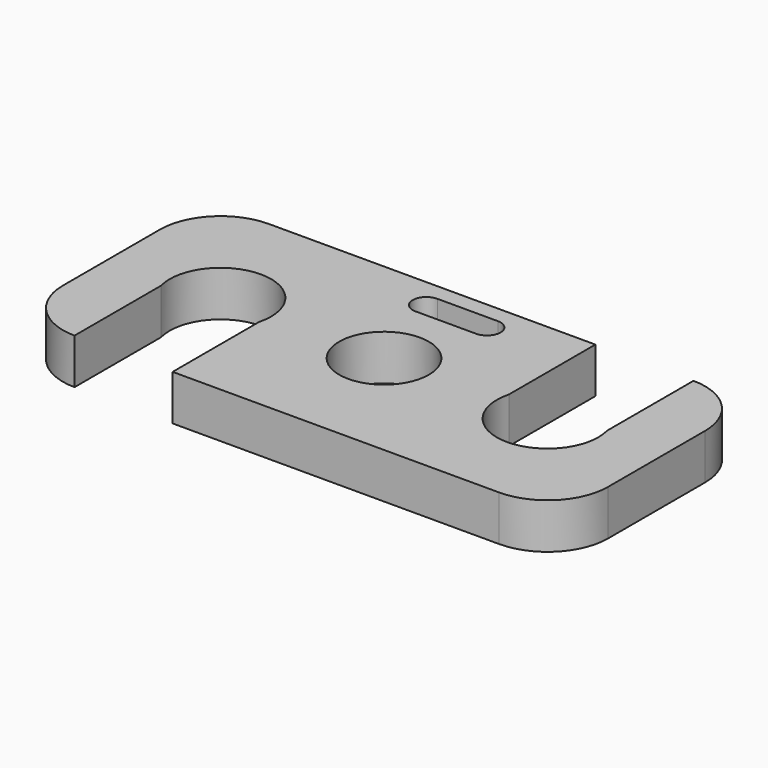
from build123d import *

# Parameters (mm, degrees)
F1_DEPTH = 19.05
F2_R     = 18.796
F3_DEPTH = 19.051
F5_DEPTH = 19.051
F7_DEPTH = 19.051


with BuildPart() as f1:
    # F0 (on Top) → F1 (new body)
    with BuildSketch(Plane.XY):
        with BuildLine():
            ThreePointArc((114.3, 25.4), (106.860512, 43.360512), (88.9, 50.8))
            Line((88.9, 50.8), (-88.9, 50.8))
            ThreePointArc((-88.9, 50.8), (-106.860512, 43.360512), (-114.3, 25.4))
            Line((-114.3, 25.4), (-114.3, -25.4))
            ThreePointArc((-114.3, -25.4), (-106.860512, -43.360512), (-88.9, -50.8))
            Line((-88.9, -50.8), (88.9, -50.8))
            ThreePointArc((88.9, -50.8), (106.860512, -43.360512), (114.3, -25.4))
            Line((114.3, -25.4), (114.3, 25.4))
        make_face()
    extrude(amount=F1_DEPTH)

    # F2 (on face) → F3 (cut, through all)
    with BuildSketch(Plane.XY.offset(19.05)):
        Circle(F2_R)
    extrude(amount=-F3_DEPTH, mode=Mode.SUBTRACT)

    # F4 (on face) → F5 (cut, through all)
    with BuildSketch(Plane.XY.offset(19.05)):
        with BuildLine():
            Line((-48.006, -50.8), (-48.006, -5.406457))
            ThreePointArc((-48.006, -5.406457), (-68.58, 21.2725), (-89.154, -5.406457))
            Line((-89.154, -5.406457), (-89.154, -50.8))
            Line((-89.154, -50.8), (-48.006, -50.8))
        make_face()
        with BuildLine():
            ThreePointArc((48.006, 5.406457), (68.58, -21.2725), (89.154, 5.406457))
            Line((89.154, 5.406457), (89.154, 50.8))
            Line((89.154, 50.8), (48.006, 50.8))
            Line((48.006, 50.8), (48.006, 5.406457))
        make_face()
    extrude(amount=-F5_DEPTH, mode=Mode.SUBTRACT)

    # F6 (on face) → F7 (cut, through all)
    with BuildSketch(Plane.XY.offset(19.05)):
        with BuildLine():
            ThreePointArc((-12.7, 43.815), (-18.415, 38.1), (-12.7, 32.385))
            Line((-12.7, 32.385), (12.7, 32.385))
            ThreePointArc((12.7, 32.385), (18.415, 38.1), (12.7, 43.815))
            Line((12.7, 43.815), (-12.7, 43.815))
        make_face()
    extrude(amount=-F7_DEPTH, mode=Mode.SUBTRACT)


solid = f1.part
